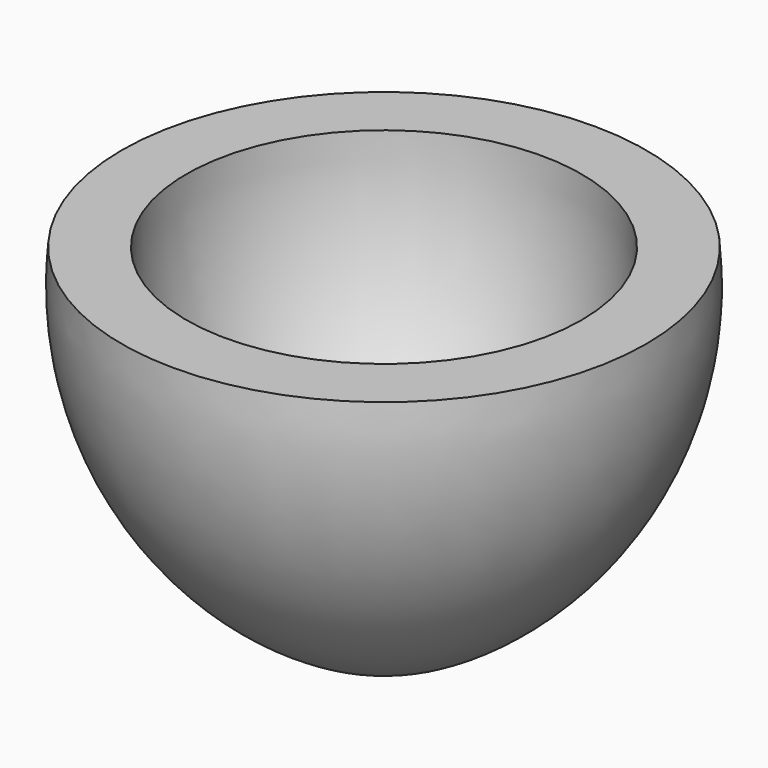
from build123d import *


with BuildPart() as f1:
    # F0 (on Front) → F1 (revolve)
    with BuildSketch(Plane.XZ):
        with BuildLine():
            ThreePointArc((23.194978, 0), (19.882971, -16.391911), (10.16, -29.998085))
            Line((10.16, -29.998085), (0, -29.998085))
            Line((0, -29.998085), (0, -38.937092))
            Line((0, -38.937092), (10.437227, -38.879555))
            ThreePointArc((10.437227, -38.879555), (26.414829, -22.477607), (30.781162, 0))
            Line((30.781162, 0), (23.194978, 0))
        make_face()
    revolve(axis=Axis((0, 0, -19.468546), (0, 0, -1)))


solid = f1.part
